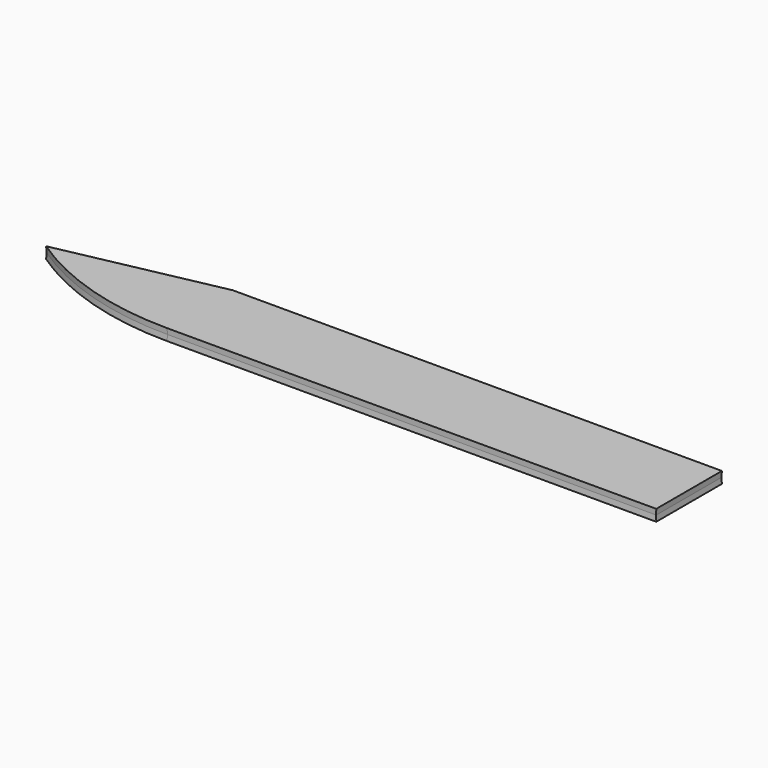
from build123d import *

# Parameters (mm, degrees)
F0_W     = 152.4
F0_H     = 25.4
F1_DEPTH = 1.778
F1_TAPER = -3


with BuildPart() as f1:
    # F0 (on Top) → F1 (new body, symmetric)
    with BuildSketch(Plane.XY):
        with Locations((0.0009177437, -12.7)):
            Rectangle(F0_W, F0_H)
        with BuildLine():
            Line((-76.1990822563, -25.4), (-76.1990822563, 0))
            Line((-76.1990822563, 0), (-125.9606556381, -10.2188949775))
            ThreePointArc((-125.9606556381, -10.2188949775), (-102.2119643301, -21.5203003803), (-76.1990822563, -25.4))
        make_face()
    extrude(amount=F1_DEPTH, both=True, taper=F1_TAPER)


solid = f1.part
